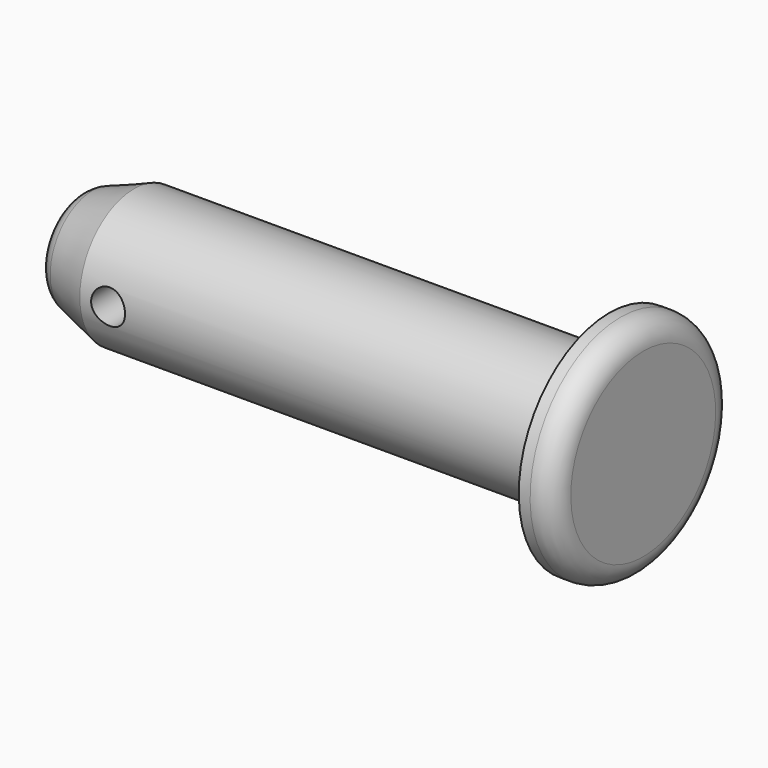
from build123d import *

# Parameters (mm, degrees)
F2_R     = 2
F3_SIZE2 = 1.8198511713
F3_SIZE  = 5
F4_R     = 2
F5_D     = 3
F5_DEPTH = 10.0010001


with BuildPart() as f1:
    # F0 (on Front) → F1 (revolve)
    with BuildSketch(Plane.XZ):
        Polygon((-50, 0), (0, 0), (0, 10), (-3, 10), (-3, 6), (-50, 6), align=None)
    revolve(axis=Axis((-25, 0, 0), (1, 0, 0)))

    # F2
    f2_edges = [f1.edges().sort_by_distance(p)[0] for p in [
        (0, 0, -10),
    ]]
    fillet(f2_edges, radius=F2_R)

    # F3
    f3_edges = [f1.edges().sort_by_distance(p)[0] for p in [
        (-50, 0, -6),
    ]]
    chamfer(f3_edges, length=F3_SIZE, length2=F3_SIZE2)

    # F4
    f4_edges = [f1.edges().sort_by_distance(p)[0] for p in [
        (-50, 0, -4.180149),
    ]]
    fillet(f4_edges, radius=F4_R)

    # F5 (through all, one way)
    with BuildSketch(Plane(origin=(0, 0, 0), x_dir=(1, 0, 0), z_dir=(0, 1, 0))):
        with Locations((-42.5, 0)):
            Circle(F5_D / 2)
    extrude(amount=-F5_DEPTH, mode=Mode.SUBTRACT)


solid = f1.part
